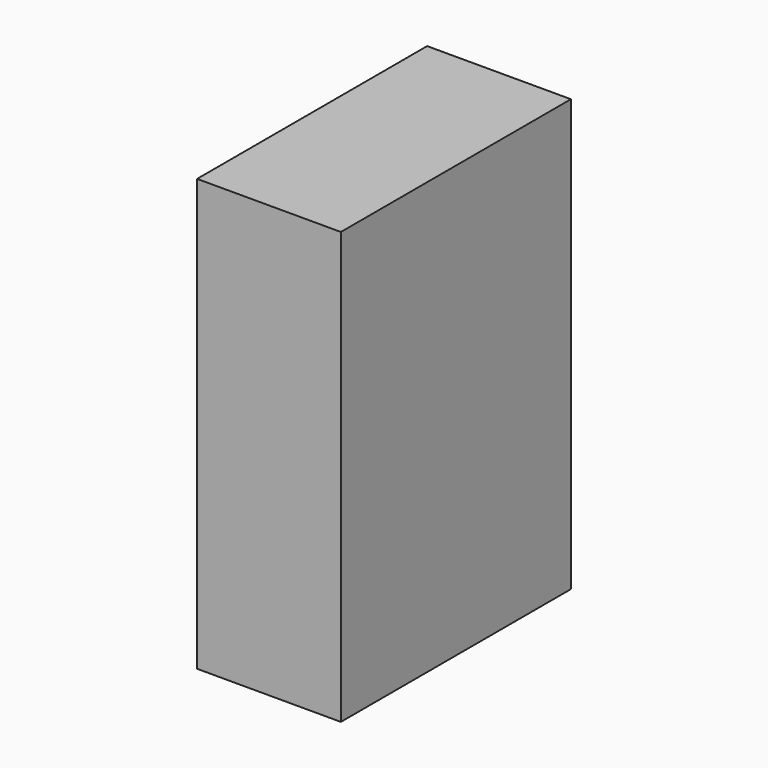
from build123d import *

# Parameters (mm, degrees)
F0_W     = 254
F0_H     = 762
F1_DEPTH = 508


with BuildPart() as f1:
    # F0 (on Front) → F1 (new body)
    with BuildSketch(Plane.XZ):
        Rectangle(F0_W, F0_H)
        Rectangle(F0_W, F0_H)
    extrude(amount=F1_DEPTH)


solid = f1.part
